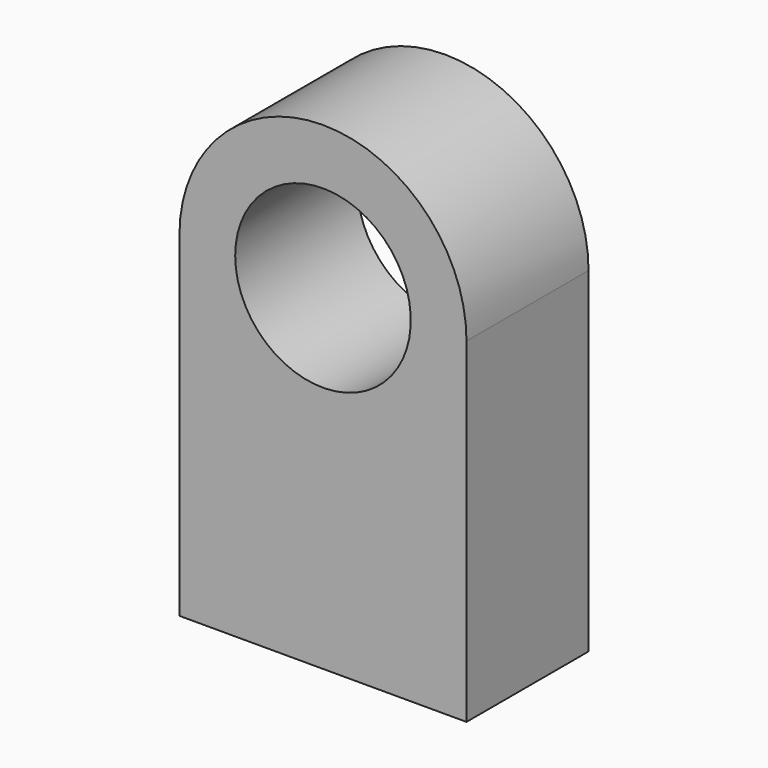
from build123d import *

# Parameters (mm, degrees)
F1_DEPTH = 50.8


with BuildPart() as f1:
    # F0 (on Front) → F1 (new body)
    with BuildSketch(Plane.XZ):
        with BuildLine():
            Line((47.794078, -55.831682), (47.794078, 55.831682))
            Line((47.794078, 55.831682), (29.232915, 55.831682))
            ThreePointArc((29.232915, 55.831682), (0, 26.598767), (-29.232915, 55.831682))
            Line((-29.232915, 55.831682), (-47.794078, 55.831682))
            Line((-47.794078, 55.831682), (-47.794078, -55.831682))
            Line((-47.794078, -55.831682), (47.794078, -55.831682))
        make_face()
        with BuildLine():
            Line((29.232915, 55.831682), (47.794078, 55.831682))
            ThreePointArc((47.794078, 55.831682), (0, 103.625759), (-47.794078, 55.831682))
            Line((-47.794078, 55.831682), (-29.232915, 55.831682))
            ThreePointArc((-29.232915, 55.831682), (0, 85.064597), (29.232915, 55.831682))
        make_face()
    extrude(amount=F1_DEPTH)


solid = f1.part
